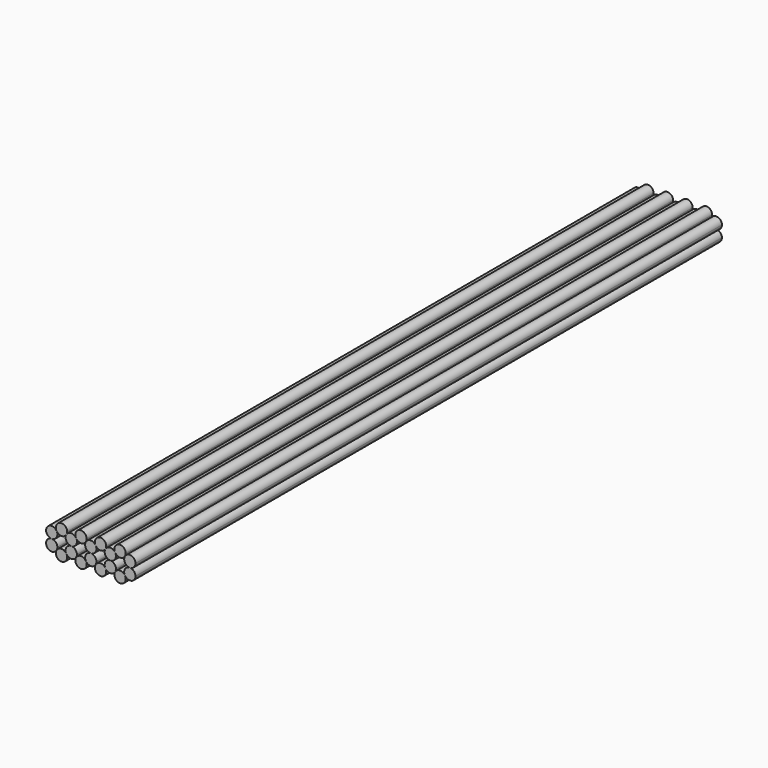
from build123d import *

# Parameters (mm, degrees)
F1_DEPTH = 379.476


with BuildPart() as f1:
    # F0 (on Front) → F1 (new body)
    with BuildSketch(Plane.XZ):
        with BuildLine():
            ThreePointArc((20.2184, 2.921), (17.687562, 1.458458), (17.6911, -1.46458))
            ThreePointArc((17.6911, -1.46458), (20.976687, -2.820858), (23.1394, 0))
            ThreePointArc((23.1394, 0), (22.283859, 2.065459), (20.2184, 2.921))
        make_face()
        with BuildLine():
            ThreePointArc((17.6911, -1.46458), (15.1638, -0.008161), (12.6365, -1.46458))
            ThreePointArc((12.6365, -1.46458), (14.405513, -5.750019), (18.0848, -2.929161))
            ThreePointArc((18.0848, -2.929161), (17.984658, -2.170874), (17.6911, -1.46458))
        make_face()
        with BuildLine():
            ThreePointArc((7.5819, -1.46458), (5.0546, -0.008161), (2.5273, -1.46458))
            ThreePointArc((2.5273, -1.46458), (4.296313, -5.750019), (7.9756, -2.929161))
            ThreePointArc((7.9756, -2.929161), (7.875458, -2.170874), (7.5819, -1.46458))
        make_face()
        with BuildLine():
            ThreePointArc((7.9756, 8.771161), (4.296313, 11.592019), (2.5273, 7.30658))
            ThreePointArc((2.5273, 7.30658), (5.0546, 5.850161), (7.5819, 7.30658))
            ThreePointArc((7.5819, 7.30658), (7.875458, 8.012874), (7.9756, 8.771161))
        make_face()
        with BuildLine():
            ThreePointArc((-7.5819, 7.30658), (-5.0546, 5.850161), (-2.5273, 7.30658))
            ThreePointArc((-2.5273, 7.30658), (-2.233742, 8.012874), (-2.1336, 8.771161))
            ThreePointArc((-2.1336, 8.771161), (-5.812887, 11.592019), (-7.5819, 7.30658))
        make_face()
        with BuildLine():
            ThreePointArc((7.5819, 7.30658), (7.578362, 4.383542), (10.1092, 2.921))
            ThreePointArc((10.1092, 2.921), (12.174659, 3.776541), (13.0302, 5.842))
            ThreePointArc((13.0302, 5.842), (12.930058, 6.600287), (12.6365, 7.30658))
            ThreePointArc((12.6365, 7.30658), (10.1092, 8.763), (7.5819, 7.30658))
        make_face()
        with BuildLine():
            ThreePointArc((-12.6365, -1.46458), (-10.1092, -2.921), (-7.5819, -1.46458))
            ThreePointArc((-7.5819, -1.46458), (-7.288342, -0.758287), (-7.1882, 0))
            ThreePointArc((-7.1882, 0), (-8.043741, 2.065459), (-10.1092, 2.921))
            ThreePointArc((-10.1092, 2.921), (-12.640038, 1.458458), (-12.6365, -1.46458))
        make_face()
        with BuildLine():
            ThreePointArc((-2.1336, -2.929161), (-2.233742, -2.170874), (-2.5273, -1.46458))
            ThreePointArc((-2.5273, -1.46458), (-5.0546, -0.008161), (-7.5819, -1.46458))
            ThreePointArc((-7.5819, -1.46458), (-5.812887, -5.750019), (-2.1336, -2.929161))
        make_face()
        with BuildLine():
            ThreePointArc((10.1092, 2.921), (7.578362, 1.458458), (7.5819, -1.46458))
            ThreePointArc((7.5819, -1.46458), (10.1092, -2.921), (12.6365, -1.46458))
            ThreePointArc((12.6365, -1.46458), (12.930058, -0.758287), (13.0302, 0))
            ThreePointArc((13.0302, 0), (12.174659, 2.065459), (10.1092, 2.921))
        make_face()
        with BuildLine():
            ThreePointArc((-2.5273, 7.30658), (-2.530838, 4.383542), (0, 2.921))
            ThreePointArc((0, 2.921), (2.065459, 3.776541), (2.921, 5.842))
            ThreePointArc((2.921, 5.842), (2.820858, 6.600287), (2.5273, 7.30658))
            ThreePointArc((2.5273, 7.30658), (0, 8.763), (-2.5273, 7.30658))
        make_face()
        with BuildLine():
            ThreePointArc((-7.1882, 5.842), (-7.288342, 6.600287), (-7.5819, 7.30658))
            ThreePointArc((-7.5819, 7.30658), (-10.1092, 8.763), (-12.6365, 7.30658))
            ThreePointArc((-12.6365, 7.30658), (-12.640038, 4.383542), (-10.1092, 2.921))
            ThreePointArc((-10.1092, 2.921), (-8.043741, 3.776541), (-7.1882, 5.842))
        make_face()
        with BuildLine():
            ThreePointArc((18.0848, 8.771161), (14.405513, 11.592019), (12.6365, 7.30658))
            ThreePointArc((12.6365, 7.30658), (15.1638, 5.850161), (17.6911, 7.30658))
            ThreePointArc((17.6911, 7.30658), (17.984658, 8.012874), (18.0848, 8.771161))
        make_face()
        with BuildLine():
            ThreePointArc((-12.2428, -2.929161), (-12.342942, -2.170874), (-12.6365, -1.46458))
            ThreePointArc((-12.6365, -1.46458), (-15.1638, -0.008161), (-17.6911, -1.46458))
            ThreePointArc((-17.6911, -1.46458), (-15.922087, -5.750019), (-12.2428, -2.929161))
        make_face()
        with BuildLine():
            ThreePointArc((17.6911, 7.30658), (17.687562, 4.383542), (20.2184, 2.921))
            ThreePointArc((20.2184, 2.921), (22.283859, 3.776541), (23.1394, 5.842))
            ThreePointArc((23.1394, 5.842), (20.976687, 8.662858), (17.6911, 7.30658))
        make_face()
        with BuildLine():
            ThreePointArc((-17.6911, 7.30658), (-15.1638, 5.850161), (-12.6365, 7.30658))
            ThreePointArc((-12.6365, 7.30658), (-12.342942, 8.012874), (-12.2428, 8.771161))
            ThreePointArc((-12.2428, 8.771161), (-15.922087, 11.592019), (-17.6911, 7.30658))
        make_face()
        with BuildLine():
            ThreePointArc((-17.2974, 5.842), (-17.397542, 6.600287), (-17.6911, 7.30658))
            ThreePointArc((-17.6911, 7.30658), (-22.749238, 7.300458), (-20.2184, 2.921))
            ThreePointArc((-20.2184, 2.921), (-18.152941, 3.776541), (-17.2974, 5.842))
        make_face()
        with BuildLine():
            ThreePointArc((-20.2184, 2.921), (-22.749238, -1.458458), (-17.6911, -1.46458))
            ThreePointArc((-17.6911, -1.46458), (-17.397542, -0.758287), (-17.2974, 0))
            ThreePointArc((-17.2974, 0), (-18.152941, 2.065459), (-20.2184, 2.921))
        make_face()
        with BuildLine():
            ThreePointArc((2.5273, -1.46458), (2.820858, -0.758287), (2.921, 0))
            ThreePointArc((2.921, 0), (2.065459, 2.065459), (0, 2.921))
            ThreePointArc((0, 2.921), (-2.530838, 1.458458), (-2.5273, -1.46458))
            ThreePointArc((-2.5273, -1.46458), (0, -2.921), (2.5273, -1.46458))
        make_face()
    extrude(amount=F1_DEPTH)


solid = f1.part
